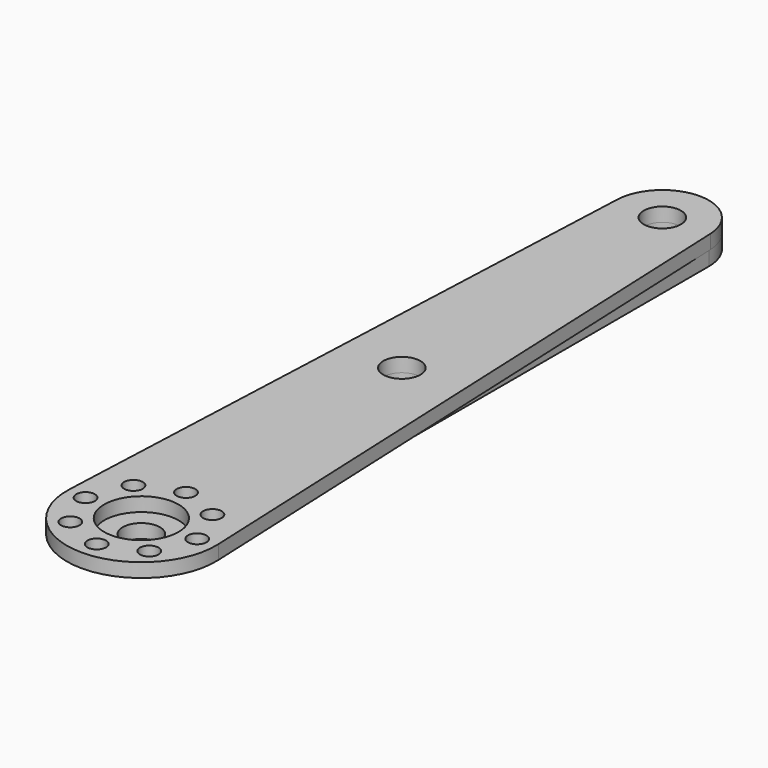
from build123d import *

# Parameters (mm, degrees)
F0_R     = 1
F0_R_2   = 4
F0_R_3   = 2
F1_DEPTH = 1.5
F2_R     = 2
F3_DEPTH = 1.5
F4_R     = 2
F5_DEPTH = 3.001


with BuildPart() as f1:
    # F0 (on Top) → F1 (new body)
    with BuildSketch(Plane.XY):
        with BuildLine():
            Line((-4.995406, 70.214286), (-7.99265, 0.342857))
            ThreePointArc((-7.99265, 0.342857), (0, -8), (7.99265, 0.342857))
            Line((7.99265, 0.342857), (4.995406, 70.214286))
            ThreePointArc((4.995406, 70.214286), (0, 75), (-4.995406, 70.214286))
        make_face()
        with Locations((-4.242641, -4.242641)):
            Circle(F0_R, mode=Mode.SUBTRACT)
        with Locations((-6, 0)):
            Circle(F0_R, mode=Mode.SUBTRACT)
        with Locations((-4.242641, 4.242641)):
            Circle(F0_R, mode=Mode.SUBTRACT)
        with Locations((0, -6)):
            Circle(F0_R, mode=Mode.SUBTRACT)
        Circle(F0_R_2, mode=Mode.SUBTRACT)
        with Locations((0, 6)):
            Circle(F0_R, mode=Mode.SUBTRACT)
        with Locations((4.242641, -4.242641)):
            Circle(F0_R, mode=Mode.SUBTRACT)
        with Locations((6, 0)):
            Circle(F0_R, mode=Mode.SUBTRACT)
        with Locations((4.242641, 4.242641)):
            Circle(F0_R, mode=Mode.SUBTRACT)
        with Locations((0, 70)):
            Circle(F0_R_3, mode=Mode.SUBTRACT)
    extrude(amount=F1_DEPTH)


with BuildPart() as f3:
    # F2 (on Top) → F3 (new body)
    with BuildSketch(Plane.XY):
        with BuildLine():
            Line((5, 35), (5, 70))
            ThreePointArc((5, 70), (0, 75), (-5, 70))
            Line((-5, 70), (-5, 35))
            Line((-5, 35), (-5, 0))
            ThreePointArc((-5, 0), (0, -5), (5, 0))
            Line((5, 0), (5, 35))
        make_face()
        Circle(F2_R, mode=Mode.SUBTRACT)
        with Locations((0, 70)):
            Circle(F2_R, mode=Mode.SUBTRACT)
    extrude(amount=-F3_DEPTH)


with BuildPart() as f5_tool:
    # F4 (on face) → F5 (new body, through all)
    with BuildSketch(Plane.XY.offset(1.5)):
        with Locations((0, 35)):
            Circle(F4_R)
    extrude(amount=-F5_DEPTH)


with BuildPart() as f1_1:
    add(f1.part)

    # F5: cut by f5_tool
    add(f5_tool.part, mode=Mode.SUBTRACT)


with BuildPart() as f3_1:
    add(f3.part)

    # F5: cut by f5_tool
    add(f5_tool.part, mode=Mode.SUBTRACT)


solid = Compound([f1_1.part, f3_1.part])
